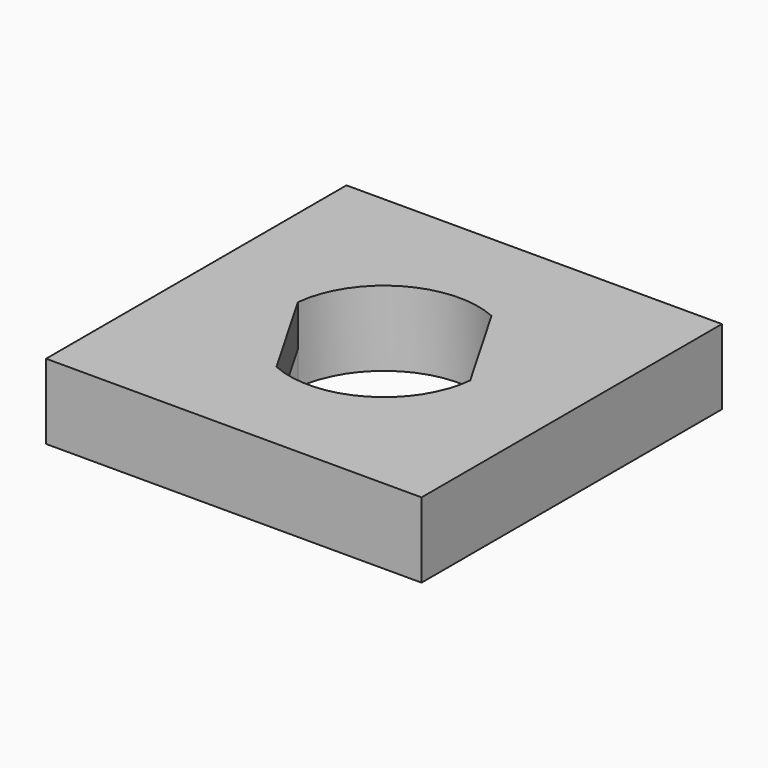
from build123d import *

# Parameters (mm, degrees)
PAD_DEPTH            = 18
SKETCH002_R          = 0.75
PAD001_DEPTH         = 1.8
CYLINDER_R           = 5.025
CYLINDER_DEPTH       = 1.8
BODY_PLACEMENT_ANGLE = 60
BOX_W                = 20
BOX_H                = 20
BOX_DEPTH            = 4


with BuildPart() as motorbody:
    # Sketch001 → Pad (new body)
    with BuildSketch(Plane.XY):
        with BuildLine():
            ThreePointArc((-2.940238, 4.075), (-5.025, 0), (-2.940238, -4.075))
            Line((-2.940238, -4.075), (2.940238, -4.075))
            ThreePointArc((2.940238, -4.075), (5.025, 0), (2.940238, 4.075))
            Line((-2.940238, 4.075), (2.940238, 4.075))
        make_face()
    extrude(amount=PAD_DEPTH)

    # Sketch002 → Pad001 (join)
    with BuildSketch(Plane.XY):
        with BuildLine():
            ThreePointArc((1.85, 6.95), (0, 8.8), (-1.85, 6.95))
            Line((-1.85, 6.95), (-1.85, -6.950003))
            ThreePointArc((-1.85, -6.950003), (2e-06, -8.8), (1.85, -6.949999))
            Line((1.85, 6.95), (1.85, -6.949999))
        make_face()
        with Locations((0, 6.95)):
            Circle(SKETCH002_R, mode=Mode.SUBTRACT)
        with Locations((0, -6.95)):
            Circle(SKETCH002_R, mode=Mode.SUBTRACT)
    extrude(amount=PAD001_DEPTH)

    # Cylinder → Cylinder (join)
    with BuildSketch(Plane.XY):
        Circle(CYLINDER_R)
    extrude(amount=CYLINDER_DEPTH)


with BuildPart() as motorbody_1:
    # Body placement: moved
    add(motorbody.part.rotate(Axis((0, 0, 0), (0, 0, -1)), BODY_PLACEMENT_ANGLE))


with BuildPart() as motortestholder:
    # Box → Box (new body)
    with BuildSketch(Plane(origin=(-10, -10, 0), x_dir=(1, 0, 0), z_dir=(0, 0, 1))):
        with Locations((10, 10)):
            Rectangle(BOX_W, BOX_H)
    extrude(amount=BOX_DEPTH)

    # Cut: cut MotorBody
    add(motorbody_1.part, mode=Mode.SUBTRACT)


solid = motortestholder.part
